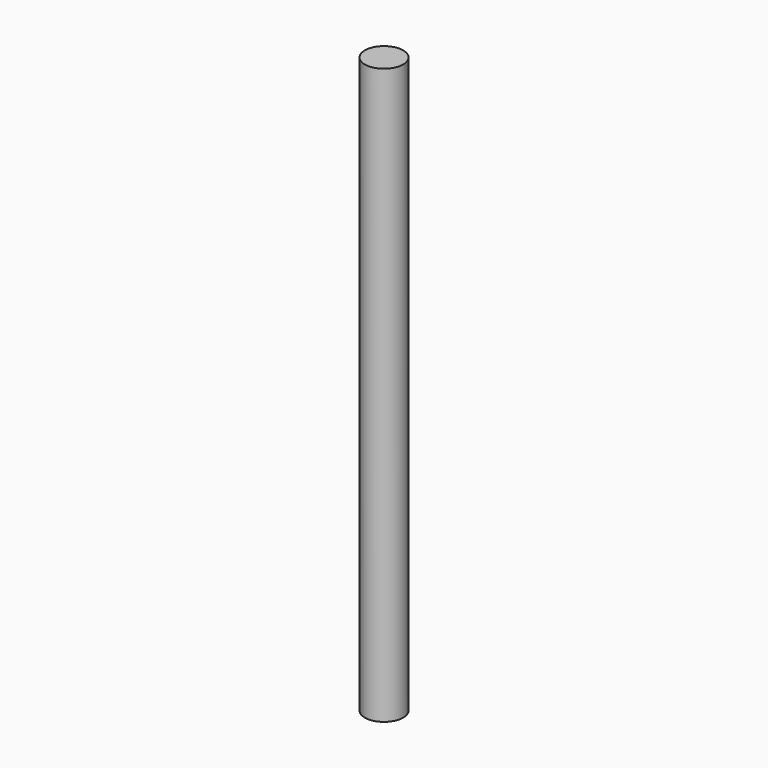
from build123d import *

# Parameters (mm, degrees)
SKETCH_R  = 4
PAD_DEPTH = 120


with BuildPart() as part:
    # Sketch → Pad (new body)
    with BuildSketch(Plane.XY):
        Circle(SKETCH_R)
    extrude(amount=PAD_DEPTH)


solid = part.part
